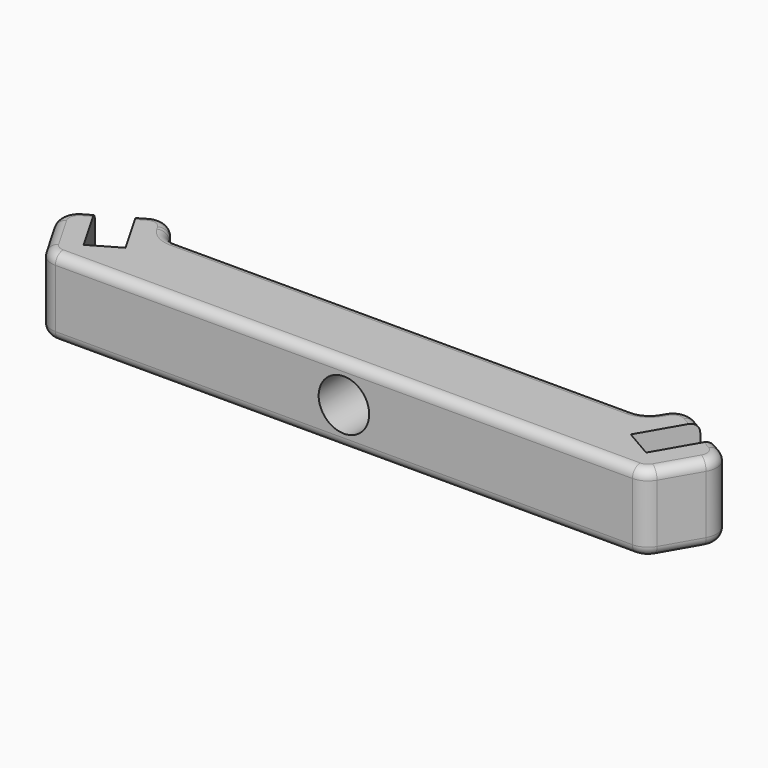
from build123d import *

# Parameters (mm, degrees)
PAD_DEPTH    = 8
SKETCH001_R  = 2.6
POCKET_DEPTH = 11.097152
FILLET_R     = 2
FILLET001_R  = 1


with BuildPart() as part:
    # Sketch → Pad (new body)
    with BuildSketch(Plane.XY):
        Polygon((-24.614359, 8), (24.614359, 8), (26.401924, 11.096152), (29, 9.596152), (26, 4.4), (28.944486, 2.7), (31.944486, 7.896152), (34.542563, 6.396152), (30.849742, 0), (-30.849742, 0), (-34.542563, 6.396152), (-31.944486, 7.896152), (-28.944486, 2.7), (-26, 4.4), (-29, 9.596152), (-26.401924, 11.096152), align=None)
    extrude(amount=PAD_DEPTH)

    # Sketch001 → Pocket (cut, through all)
    with BuildSketch(Plane.XZ):
        with Locations((0, 4)):
            Circle(SKETCH001_R)
    extrude(amount=-POCKET_DEPTH, mode=Mode.SUBTRACT)

    # Fillet
    fillet_edges = [part.edges().sort_by_distance(p)[0] for p in [
        (-30.849742, 0, 4),
        (-24.614359, 8, 4),
        (24.614359, 8, 4),
        (30.849742, 0, 4),
        (34.542563, 6.396152, 4),
        (26.401924, 11.096152, 4),
        (-26.401924, 11.096152, 4),
        (-34.542563, 6.396152, 4),
    ]]
    fillet(fillet_edges, radius=FILLET_R)

    # Fillet001
    fillet001_edges = [part.edges().sort_by_distance(p)[0] for p in [
        (0, 8, 0),
        (0, 0, 0),
        (0, 8, 8),
        (0, 0, 8),
    ]]
    fillet(fillet001_edges, radius=FILLET001_R)


solid = part.part
